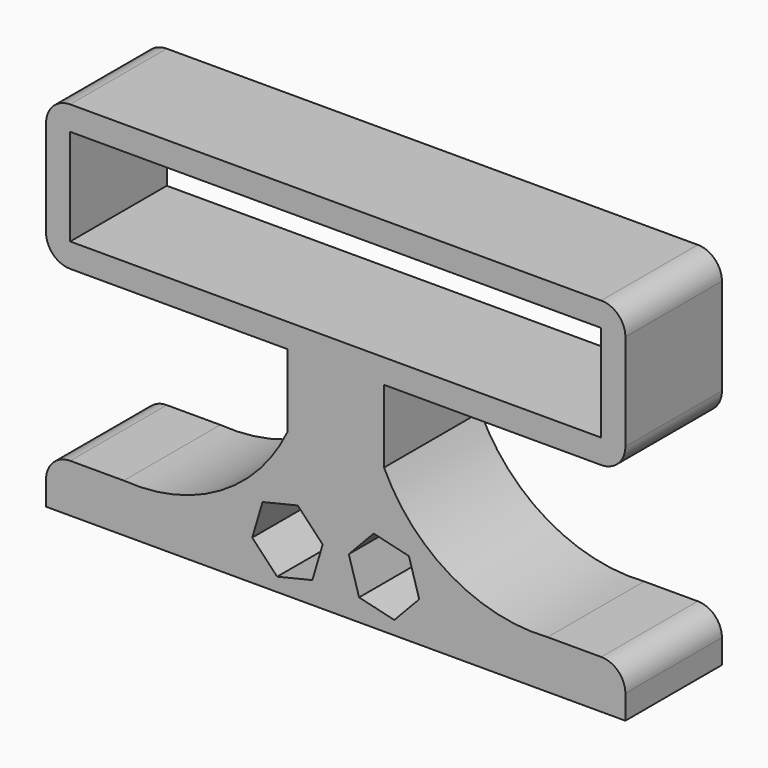
from build123d import *

# Parameters (mm, degrees)
F1_DEPTH = 25


with BuildPart() as f1:
    # F0 (on Front) → F1 (new body)
    with BuildSketch(Plane.XZ):
        with BuildLine():
            Line((-60, 0), (0, 0))
            Line((0, 0), (60, 0))
            Line((60, 0), (60, 5))
            ThreePointArc((60, 5), (58.535534, 8.535534), (55, 10))
            Line((55, 10), (43.900207, 10))
            ThreePointArc((43.900207, 10), (23.870935, 14.706872), (10, 29.903039))
            Line((10, 29.903039), (10, 45))
            Line((10, 45), (55, 45))
            ThreePointArc((55, 45), (58.535534, 46.464466), (60, 50))
            Line((60, 50), (60, 70))
            ThreePointArc((60, 70), (58.535534, 73.535534), (55, 75))
            Line((55, 75), (0, 75))
            Line((0, 75), (-55, 75))
            ThreePointArc((-55, 75), (-58.535534, 73.535534), (-60, 70))
            Line((-60, 70), (-60, 50))
            ThreePointArc((-60, 50), (-58.535534, 46.464466), (-55, 45))
            Line((-55, 45), (-10, 45))
            Line((-10, 45), (-10, 29.903039))
            ThreePointArc((-10, 29.903039), (-23.870935, 14.706872), (-43.900207, 10))
            Line((-43.900207, 10), (-55, 10))
            ThreePointArc((-55, 10), (-58.535534, 8.535534), (-60, 5))
            Line((-60, 5), (-60, 0))
        make_face()
        Polygon((-12.136564, 2.810765), (-17.294342, 8.255701), (-15.157778, 15.444936), (-7.863436, 17.189235), (-2.705658, 11.744299), (-4.842222, 4.555064), align=None, mode=Mode.SUBTRACT)
        Polygon((15.157778, 15.444936), (17.294342, 8.255701), (12.136564, 2.810765), (4.842222, 4.555064), (2.705658, 11.744299), (7.863436, 17.189235), align=None, mode=Mode.SUBTRACT)
        Polygon((-55, 70), (0, 70), (55, 70), (55, 50), (0, 50), (-55, 50), align=None, mode=Mode.SUBTRACT)
    extrude(amount=F1_DEPTH)


solid = f1.part
